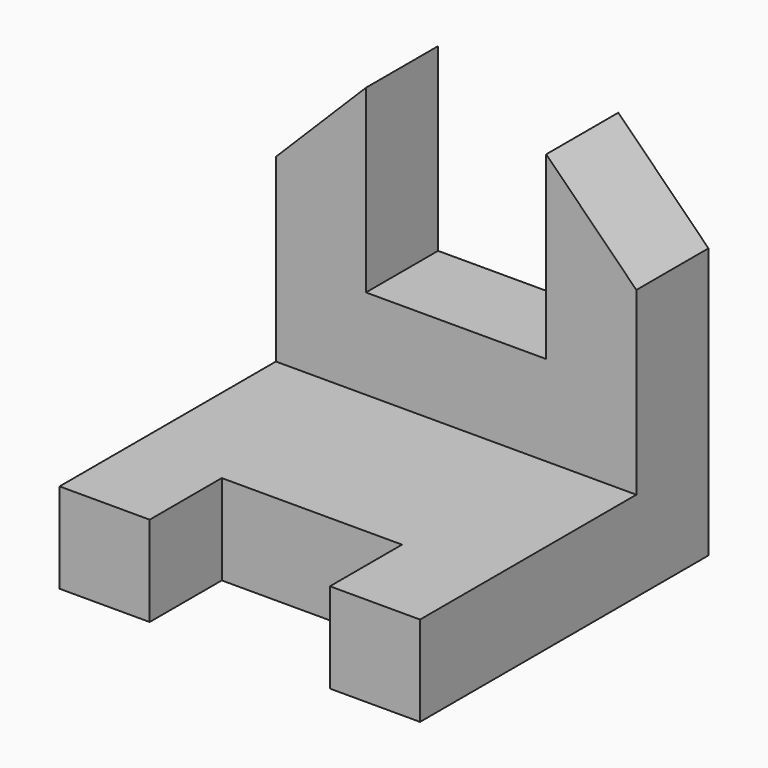
from build123d import *

# Parameters (mm, degrees)
F1_DEPTH = 25.4
F2_W     = 101.6
F2_H     = 25.4
F3_DEPTH = 76.2
F4_W     = 50.8
F4_H     = 25.4
F5_DEPTH = 25.4


with BuildPart() as f1:
    # F0 (on Front) → F1 (new body)
    with BuildSketch(Plane.XZ):
        Polygon((-33.185521, 64.438955), (-58.585521, 39.038955), (-58.585521, -37.161045), (43.014479, -37.161045), (43.014479, 39.038955), (17.614479, 64.438955), (17.614479, 13.638955), (-33.185521, 13.638955), align=None)
    extrude(amount=F1_DEPTH)

    # F2 (on face) → F3 (join)
    with BuildSketch(Plane.XZ.offset(25.4)):
        with Locations((-7.785521, -24.461045)):
            Rectangle(F2_W, F2_H)
    extrude(amount=F3_DEPTH)

    # F4 (on face) → F5 (cut)
    with BuildSketch(Plane.XY.offset(-11.761045)):
        with Locations((-7.785521, -88.9)):
            Rectangle(F4_W, F4_H)
    extrude(amount=-F5_DEPTH, mode=Mode.SUBTRACT)


solid = f1.part
